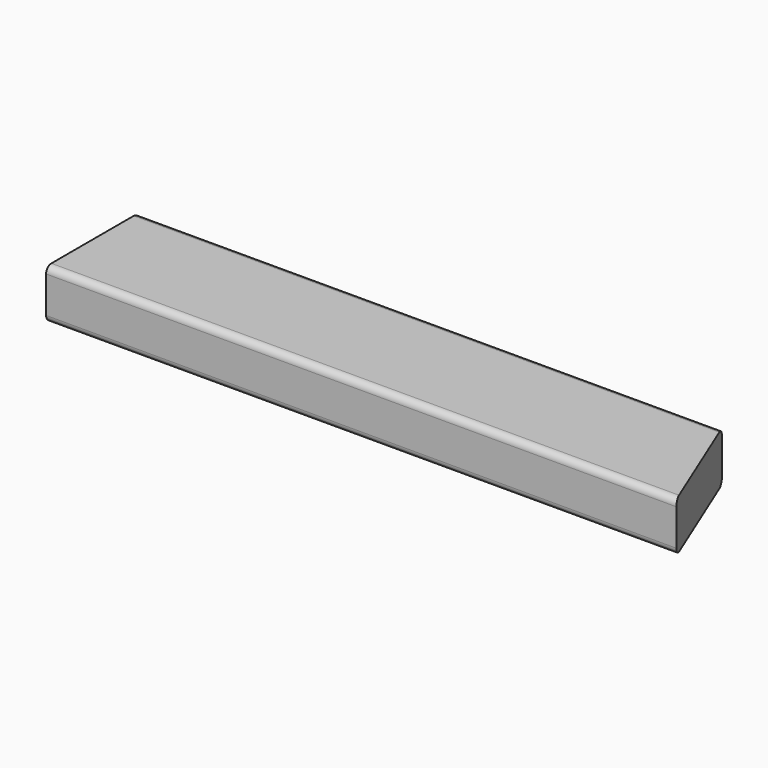
from build123d import *

# Parameters (mm, degrees)
F1_DEPTH = 38.1
F2_R     = 5.08


with BuildPart() as f1:
    # F0 (on Top) → F1 (new body)
    with BuildSketch(Plane.XY):
        Polygon((446.320582, 88.9), (0, 88.9), (0, 0), (482.6, 0), align=None)
    extrude(amount=F1_DEPTH)

    # F2
    f2_edges = [f1.edges().sort_by_distance(p)[0] for p in [
        (223.160291, 88.9, 38.1),
        (241.3, 0, 38.1),
        (223.160291, 88.9, 0),
        (241.3, 0, 0),
    ]]
    fillet(f2_edges, radius=F2_R)


solid = f1.part
